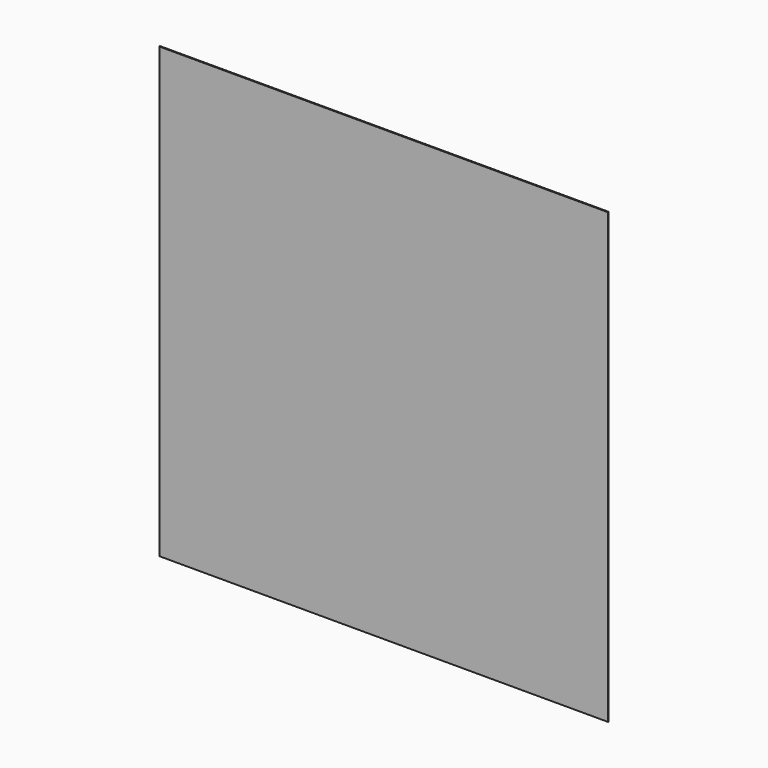
from build123d import *

# Parameters (mm, degrees)
F0_W     = 1651
F0_H     = 1651
F1_DEPTH = 3.175
F3_W     = 1524
F3_H     = 1524
F4_DEPTH = 3.175


with BuildPart() as f1:
    # F0 (on Front) → F1 (new body)
    with BuildSketch(Plane.XZ):
        Rectangle(F0_W, F0_H)
    extrude(amount=F1_DEPTH)


with BuildPart() as f4:
    # F3 (on Front) → F4 (new body)
    with BuildSketch(Plane.XZ):
        Rectangle(F3_W, F3_H)
    extrude(amount=F4_DEPTH)


solid = f4.part
